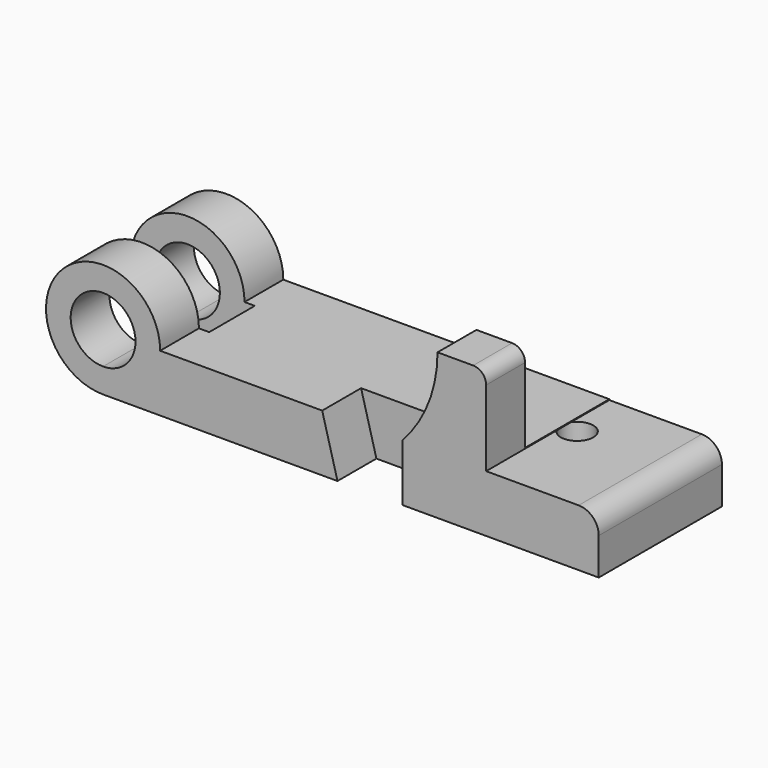
from build123d import *

# Parameters (mm, degrees)
F1_DEPTH  = 60.325
F2_W      = 53.0107717005
F2_H      = 22.3266
F3_DEPTH  = 44.2625842988
F4_W      = 41.91
F4_H      = 34.670740366
F5_DEPTH  = 77.503874898
F6_R      = 7.874
F7_R      = 5.08
F8_DEPTH  = 19.0500002354
F9_R      = 6.35
F10_DEPTH = 22.353


with BuildPart() as f1:
    # F0 (on Front) → F1 (new body)
    with BuildSketch(Plane.XZ):
        with BuildLine():
            Line((20.1422, -11.176), (97.1042, -11.176))
            Line((97.1042, -11.176), (97.1042, 11.176))
            Line((97.1042, 11.176), (52.9844, 11.176))
            Line((52.9844, 11.176), (52.9844, 45.974))
            Line((52.9844, 45.974), (33.9344, 45.974))
            ThreePointArc((33.9344, 45.974), (30.3602153616, 27.2583576341), (20.1422, 11.176))
            Line((20.1422, 11.176), (20.1422, -11.176))
        make_face()
        Polygon((-5.2578, -11.176), (20.1422, -11.176), (20.1422, 11.176), (-11.2522, 11.176), align=None)
        with BuildLine():
            Line((-97.1042, -11.176), (-5.2578, -11.176))
            Line((-5.2578, -11.176), (-11.2522, 11.176))
            Line((-11.2522, 11.176), (-74.7522, 11.176))
            ThreePointArc((-74.7522, 11.176), (-81.2989492269, -4.6292507731), (-97.1042, -11.176))
        make_face()
        with BuildLine():
            ThreePointArc((-74.7522, 11.176), (-112.9094507731, 26.9812507731), (-97.1042, -11.176))
            Line((-97.1042, -11.176), (-97.1042, -1.524))
            ThreePointArc((-97.1042, -1.524), (-106.0844561211, 20.1562561211), (-84.4042, 11.176))
            Line((-84.4042, 11.176), (-74.7522, 11.176))
        make_face()
        with BuildLine():
            Line((-97.1042, -1.524), (-97.1042, -11.176))
            ThreePointArc((-97.1042, -11.176), (-81.2989492269, -4.6292507731), (-74.7522, 11.176))
            Line((-74.7522, 11.176), (-84.4042, 11.176))
            ThreePointArc((-84.4042, 11.176), (-88.1239438789, 2.1957438789), (-97.1042, -1.524))
        make_face()
    extrude(amount=-F1_DEPTH)

    # F2 (on Top) → F3 (cut, symmetric)
    with BuildSketch(Plane.XY):
        with Locations((-97.226254642, 30.1625)):
            Rectangle(F2_W, F2_H)
    extrude(amount=F3_DEPTH, both=True, mode=Mode.SUBTRACT)

    # F4 (on Right) → F5 (cut)
    with BuildSketch(Plane.YZ):
        with Locations((40.005, 28.8226753473)):
            Rectangle(F4_W, F4_H)
    extrude(amount=F5_DEPTH, mode=Mode.SUBTRACT)

    # F6
    f6_edges = [f1.edges().sort_by_distance(p)[0] for p in [
        (97.1042, 30.1625, 11.176),
    ]]
    fillet(f6_edges, radius=F6_R)

    # F7
    f7_edges = [f1.edges().sort_by_distance(p)[0] for p in [
        (52.9844, 9.525, 45.974),
    ]]
    fillet(f7_edges, radius=F7_R)

    # F0 (on Front) → F8 (cut)
    with BuildSketch(Plane.XZ):
        Polygon((-5.2578, -11.176), (20.1422, -11.176), (20.1422, 11.176), (-11.2522, 11.176), align=None)
    extrude(amount=-F8_DEPTH, mode=Mode.SUBTRACT)

    # F9 (on face) → F10 (cut, through all)
    with BuildSketch(Plane.XY.offset(11.176)):
        with Locations((58.2422, 37.973)):
            Circle(F9_R)
    extrude(amount=-F10_DEPTH, mode=Mode.SUBTRACT)


solid = f1.part
